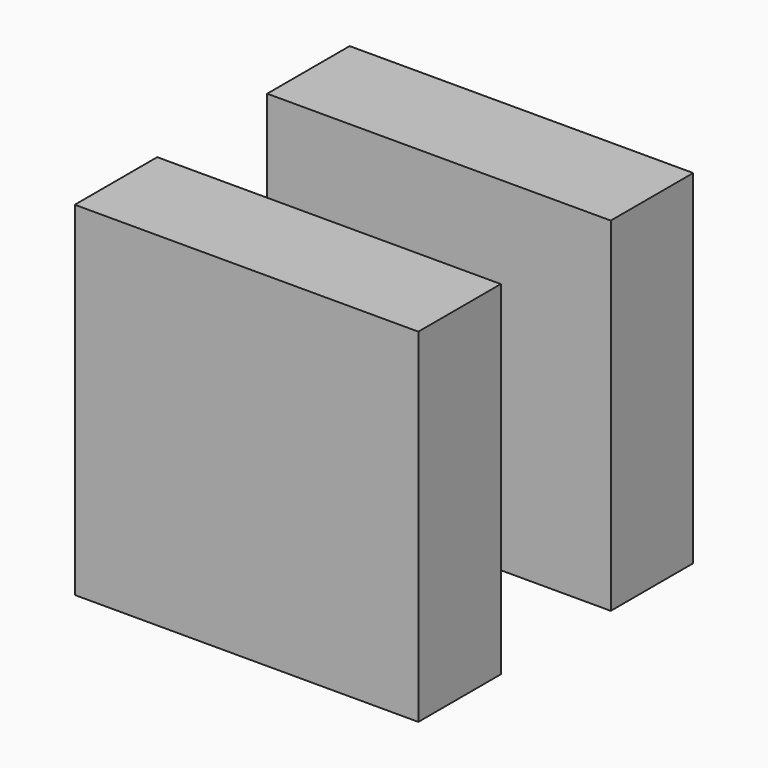
from build123d import *

# Parameters (mm, degrees)
BOX012_W     = 10
BOX012_H     = 4
BOX012_DEPTH = 10
BOX013_W     = 10
BOX013_H     = 10
BOX013_DEPTH = 10


with BuildPart() as cube012:
    # Box012 → Box012 (new body)
    with BuildSketch(Plane(origin=(0, -2, 0), x_dir=(1, 0, 0), z_dir=(0, 0, 1))):
        with Locations((5, 2)):
            Rectangle(BOX012_W, BOX012_H)
    extrude(amount=BOX012_DEPTH)


with BuildPart() as f_2_temp:
    # Box013 → Box013 (new body)
    with BuildSketch(Plane(origin=(0, -5, 0), x_dir=(1, 0, 0), z_dir=(0, 0, 1))):
        with Locations((5, 5)):
            Rectangle(BOX013_W, BOX013_H)
    extrude(amount=BOX013_DEPTH)

    # Cut036: cut Cube012
    add(cube012.part, mode=Mode.SUBTRACT)


solid = f_2_temp.part
